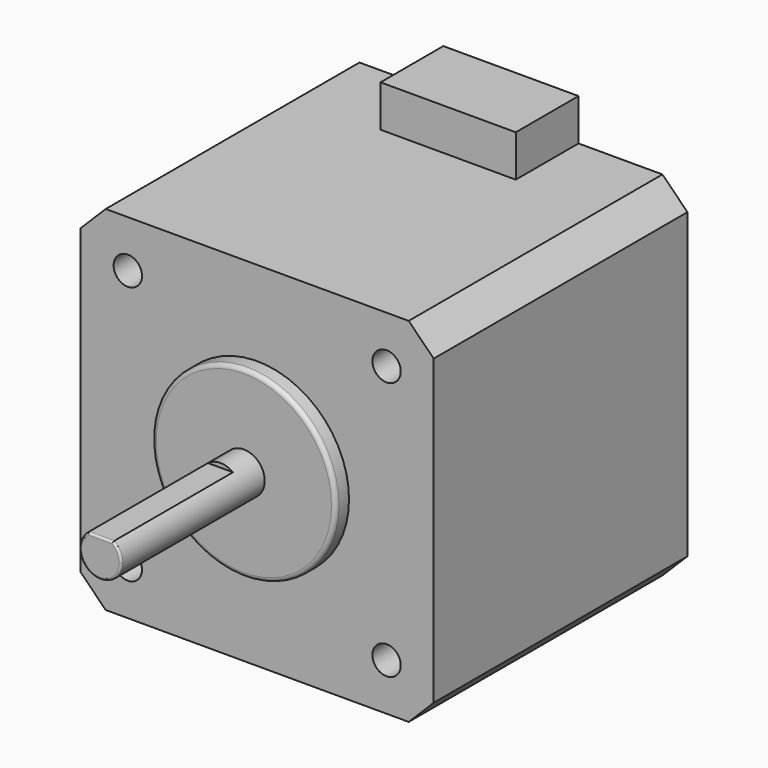
from build123d import *

# Parameters (mm, degrees)
SKETCH_W     = 42.3
SKETCH_H     = 42.3
PAD_DEPTH    = 38
SKETCH001_R  = 1.7
HOLE_DEPTH   = 4.5
HOLE_TIPS_R  = 1.7
SKETCH002_R  = 11
PAD001_DEPTH = 2
FILLET_R     = 0.5
CHAMFER_SIZE = 3
SKETCH003_R  = 2.5
PAD002_DEPTH = 21.5
POCKET_DEPTH = 18
FILLET001_R  = 0.25
SKETCH005_W  = 16.2
SKETCH005_H  = 9.4
PAD003_DEPTH = 5


with BuildPart() as part:
    # Sketch → Pad (new body)
    with BuildSketch(Plane.XZ):
        Rectangle(SKETCH_W, SKETCH_H)
    extrude(amount=PAD_DEPTH)

    # Sketch001 (on Face6 of Pad) → Hole (cut)
    with BuildSketch(Plane.XZ.offset(38)):
        with Locations((-15.5, 15.5)):
            Circle(SKETCH001_R)
        with Locations((15.5, 15.5)):
            Circle(SKETCH001_R)
        with Locations((15.5, -15.5)):
            Circle(SKETCH001_R)
        with Locations((-15.5, -15.5)):
            Circle(SKETCH001_R)
    extrude(amount=-HOLE_DEPTH, mode=Mode.SUBTRACT)

    # Hole tips → Hole tip 1 section 0
    with BuildSketch(Plane.XZ.offset(33.5), mode=Mode.PRIVATE) as hole_tip_1_s0:
        with Locations((-15.5, 15.5)):
            Circle(HOLE_TIPS_R)
    loft([hole_tip_1_s0.sketch, Vertex(-15.5, -32.478537, 15.5)], mode=Mode.SUBTRACT)

    # Hole tips → Hole tip 2 section 0
    with BuildSketch(Plane.XZ.offset(33.5), mode=Mode.PRIVATE) as hole_tip_2_s0:
        with Locations((15.5, 15.5)):
            Circle(HOLE_TIPS_R)
    loft([hole_tip_2_s0.sketch, Vertex(15.5, -32.478537, 15.5)], mode=Mode.SUBTRACT)

    # Hole tips → Hole tip 3 section 0
    with BuildSketch(Plane.XZ.offset(33.5), mode=Mode.PRIVATE) as hole_tip_3_s0:
        with Locations((15.5, -15.5)):
            Circle(HOLE_TIPS_R)
    loft([hole_tip_3_s0.sketch, Vertex(15.5, -32.478537, -15.5)], mode=Mode.SUBTRACT)

    # Hole tips → Hole tip 4 section 0
    with BuildSketch(Plane.XZ.offset(33.5), mode=Mode.PRIVATE) as hole_tip_4_s0:
        with Locations((-15.5, -15.5)):
            Circle(HOLE_TIPS_R)
    loft([hole_tip_4_s0.sketch, Vertex(-15.5, -32.478537, -15.5)], mode=Mode.SUBTRACT)

    # Sketch002 (on Face5 of Hole) → Pad001 (join)
    with BuildSketch(Plane.XZ.offset(38)):
        Circle(SKETCH002_R)
    extrude(amount=PAD001_DEPTH)

    # Fillet
    fillet_edges = [part.edges().sort_by_distance(p)[0] for p in [
        (-11, -40, 0),
    ]]
    fillet(fillet_edges, radius=FILLET_R)

    # Chamfer
    chamfer_edges = [part.edges().sort_by_distance(p)[0] for p in [
        (-21.15, -19, -21.15),
        (-21.15, -19, 21.15),
        (21.15, -19, 21.15),
        (21.15, -19, -21.15),
    ]]
    chamfer(chamfer_edges, length=CHAMFER_SIZE)

    # Sketch003 (on Face21 of Chamfer) → Pad002 (join)
    with BuildSketch(Plane.XZ.offset(40)):
        Circle(SKETCH003_R)
    extrude(amount=PAD002_DEPTH)

    # Sketch004 (on Face23 of Pad002) → Pocket (cut)
    with BuildSketch(Plane.XZ.offset(61.5)):
        with BuildLine():
            Line((-1.5, 2), (1.5, 2))
            ThreePointArc((1.5, 2), (0, 2.5), (-1.5, 2))
        make_face()
    extrude(amount=-POCKET_DEPTH, mode=Mode.SUBTRACT)

    # Fillet001
    fillet001_edges = [part.edges().sort_by_distance(p)[0] for p in [
        (-1.118034, -61.5, -2.236068),
        (0, -61.5, 2),
        (2.236068, -61.5, 1.118034),
    ]]
    fillet(fillet001_edges, radius=FILLET001_R)

    # Sketch005 (on Face19 of Fillet001) → Pad003 (join)
    with BuildSketch(Plane(origin=(0, 0, 21.15), x_dir=(-1, 0, 0), z_dir=(0, 0, 1))):
        with Locations((0, 4.7)):
            Rectangle(SKETCH005_W, SKETCH005_H)
    extrude(amount=PAD003_DEPTH)


solid = part.part
